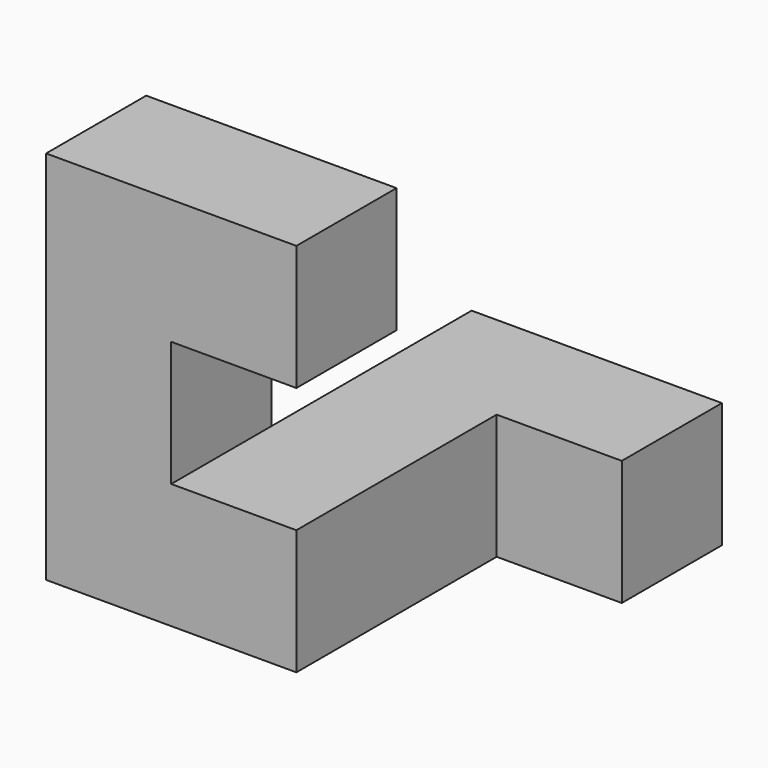
from build123d import *

# Parameters (mm, degrees)
F0_W     = 25.4
F0_H     = 25.4
F1_DEPTH = 38.1
F2_W     = 25.4
F2_H     = 25.4
F3_DEPTH = 38.1
F4_W     = 25.4
F4_H     = 25.4
F5_DEPTH = 25.4
F6_W     = 25.4
F6_H     = 25.4
F7_DEPTH = 50.8
F8_W     = 25.4
F8_H     = 25.4
F9_DEPTH = 25.4


with BuildPart() as f1:
    # F0 (on Front) → F1 (new body, symmetric)
    with BuildSketch(Plane.XZ):
        Rectangle(F0_W, F0_H)
    extrude(amount=F1_DEPTH, both=True)

    # F2 (on Right) → F3 (join)
    with BuildSketch(Plane.YZ):
        with Locations((25.4, 0)):
            Rectangle(F2_W, F2_H)
    extrude(amount=F3_DEPTH)

    # F4 (on face) → F5 (join)
    with BuildSketch(Plane(origin=(-12.7, 0, 0), x_dir=(0, -1, 0), z_dir=(-1, 0, 0))):
        with Locations((25.4, 0)):
            Rectangle(F4_W, F4_H)
    extrude(amount=F5_DEPTH)

    # F6 (on face) → F7 (join)
    with BuildSketch(Plane.XY.offset(12.7)):
        with Locations((-25.4, -25.4)):
            Rectangle(F6_W, F6_H)
    extrude(amount=F7_DEPTH)

    # F8 (on face) → F9 (join)
    with BuildSketch(Plane.YZ.offset(-12.7)):
        with Locations((-25.4, 50.8)):
            Rectangle(F8_W, F8_H)
    extrude(amount=F9_DEPTH)


solid = f1.part
